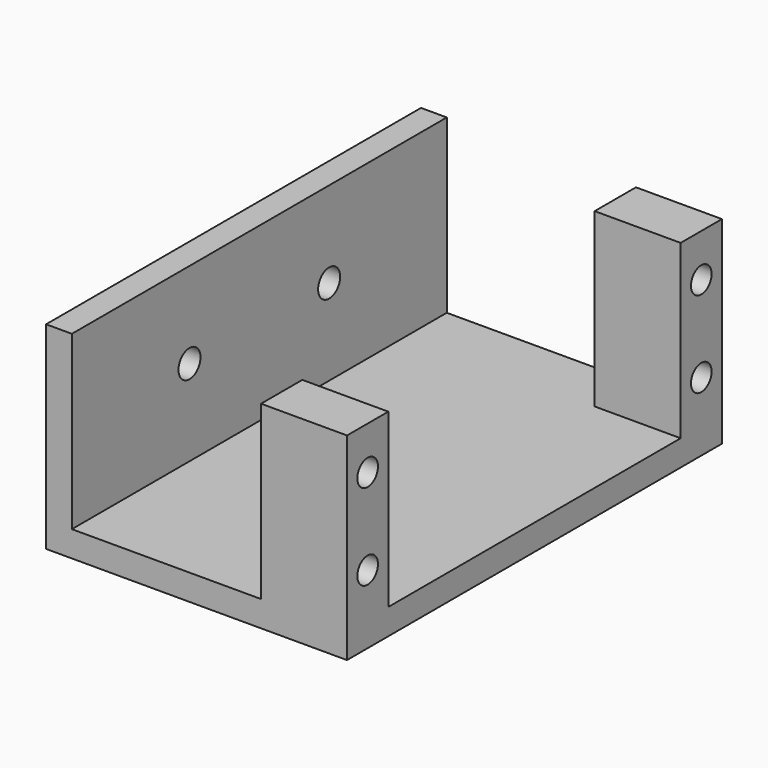
from build123d import *

# Parameters (mm, degrees)
SKETCH_W        = 35
SKETCH_H        = 54.5
PAD_DEPTH       = 3
SKETCH001_W     = 3
SKETCH001_H     = 54.5
PAD001_DEPTH    = 20
SKETCH002_W     = 10
SKETCH002_H     = 6
PAD002_DEPTH    = 20
SKETCH003_R     = 1.5
POCKET_DEPTH    = 11
SKETCH004_R     = 1.6
POCKET001_DEPTH = 5


with BuildPart() as part:
    # Sketch → Pad (new body)
    with BuildSketch(Plane.XY):
        with Locations((17.5, 27.25)):
            Rectangle(SKETCH_W, SKETCH_H)
    extrude(amount=PAD_DEPTH)

    # Sketch001 (on Face6 of Pad) → Pad001 (join)
    with BuildSketch(Plane.XY.offset(3)):
        with Locations((1.5, 27.25)):
            Rectangle(SKETCH001_W, SKETCH001_H)
    extrude(amount=PAD001_DEPTH)

    # Sketch002 (on Face6 of Pad001) → Pad002 (join)
    with BuildSketch(Plane.XY.offset(3)):
        with Locations((30, 3)):
            Rectangle(SKETCH002_W, SKETCH002_H)
        with Locations((30, 51.5)):
            Rectangle(SKETCH002_W, SKETCH002_H)
    extrude(amount=PAD002_DEPTH)

    # Sketch003 (on Face11 of Pad002) → Pocket (cut)
    with BuildSketch(Plane.YZ.offset(35)):
        with Locations((3, 18)):
            Circle(SKETCH003_R)
        with Locations((3, 8)):
            Circle(SKETCH003_R)
        with Locations((51.5, 18)):
            Circle(SKETCH003_R)
        with Locations((51.5, 8)):
            Circle(SKETCH003_R)
    extrude(amount=-POCKET_DEPTH, mode=Mode.SUBTRACT)

    # Sketch004 (on Face12 of Pocket) → Pocket001 (cut)
    with BuildSketch(Plane.YZ.offset(3)):
        with Locations((17.1, 13)):
            Circle(SKETCH004_R)
        with Locations((37.4, 13)):
            Circle(SKETCH004_R)
    extrude(amount=-POCKET001_DEPTH, mode=Mode.SUBTRACT)


solid = part.part
